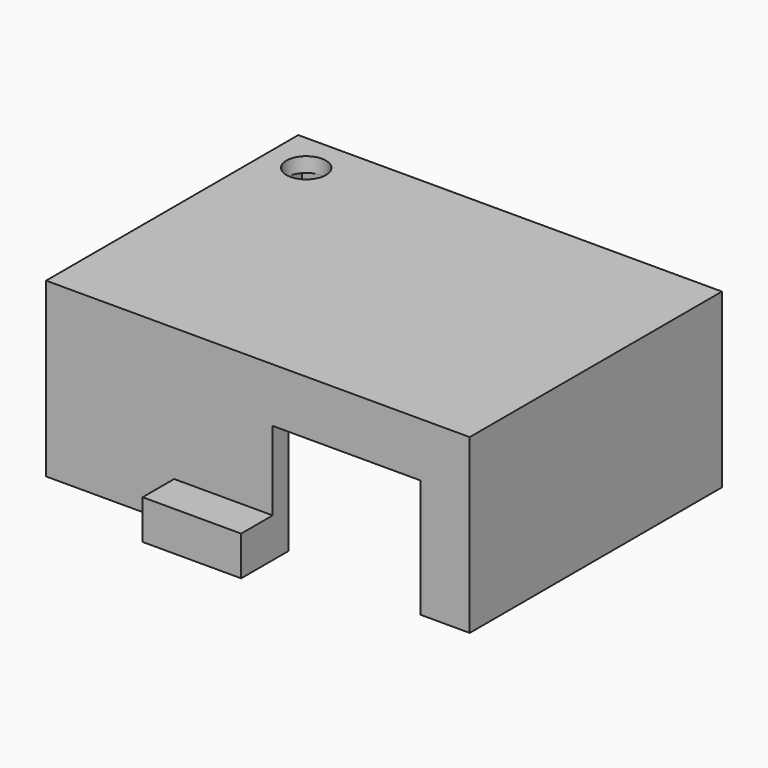
from build123d import *

# Parameters (mm, degrees)
F0_W      = 43
F0_H      = 32
F0_W_2    = 39
F0_H_2    = 28
F1_DEPTH  = 16
F2_W      = 43
F2_H      = 32
F3_DEPTH  = 1.5
F4_W      = 10
F4_H      = 13.5
F5_DEPTH  = 2
F6_R      = 2
F7_DEPTH  = 1.5
F8_W      = 12
F8_H      = 16
F9_DEPTH  = 2
F10_W     = 15
F10_H     = 12
F11_DEPTH = 2
F12_W     = 10
F12_H     = 4
F13_DEPTH = 4
F14_W     = 10
F14_H     = 4
F15_DEPTH = 4


with BuildPart() as f1:
    # F0 (on Top) → F1 (new body)
    with BuildSketch(Plane.XY):
        with Locations((19.5, -14)):
            Rectangle(F0_W, F0_H)
        with Locations((19.5, -14)):
            Rectangle(F0_W_2, F0_H_2, mode=Mode.SUBTRACT)
    extrude(amount=F1_DEPTH)

    # F2 (on face) → F3 (join)
    with BuildSketch(Plane.XY.offset(16)):
        with Locations((19.5, -14)):
            Rectangle(F2_W, F2_H)
    extrude(amount=F3_DEPTH)

    # F4 (on face) → F5 (cut, through all)
    with BuildSketch(Plane(origin=(-2, 0, 0), x_dir=(0, -1, 0), z_dir=(-1, 0, 0))):
        with Locations((7, 6.75)):
            Rectangle(F4_W, F4_H)
    extrude(amount=-F5_DEPTH, mode=Mode.SUBTRACT)

    # F6 (on face) → F7 (cut, through all)
    with BuildSketch(Plane.XY.offset(17.5)):
        with Locations((2, -2)):
            Circle(F6_R)
    extrude(amount=-F7_DEPTH, mode=Mode.SUBTRACT)

    # F8 (on face) → F9 (cut, through all)
    with BuildSketch(Plane(origin=(0, 2, 0), x_dir=(-1, 0, 0), z_dir=(0, 1, 0))):
        with Locations((-32, 8)):
            Rectangle(F8_W, F8_H)
    extrude(amount=-F9_DEPTH, mode=Mode.SUBTRACT)

    # F10 (on face) → F11 (cut, through all)
    with BuildSketch(Plane.XZ.offset(30)):
        with Locations((28.5, 6)):
            Rectangle(F10_W, F10_H)
    extrude(amount=-F11_DEPTH, mode=Mode.SUBTRACT)

    # F12 (on face) → F13 (join)
    with BuildSketch(Plane.XZ.offset(30)):
        with Locations((16, 2)):
            Rectangle(F12_W, F12_H)
    extrude(amount=F13_DEPTH)

    # F14 (on face) → F15 (join)
    with BuildSketch(Plane(origin=(0, 2, 0), x_dir=(-1, 0, 0), z_dir=(0, 1, 0))):
        with Locations((-16, 2)):
            Rectangle(F14_W, F14_H)
    extrude(amount=F15_DEPTH)


solid = f1.part
